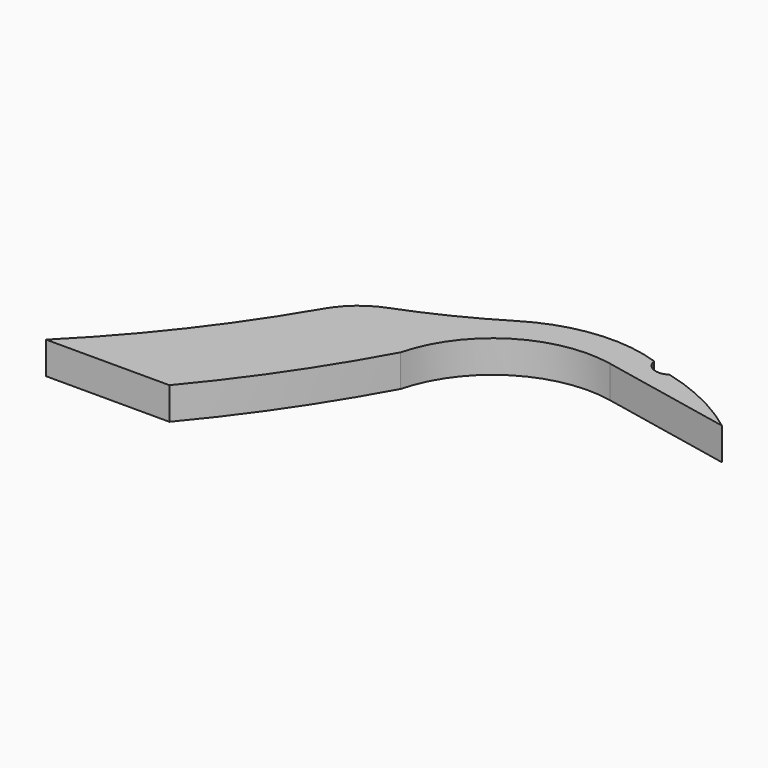
from build123d import *

# Parameters (mm, degrees)
F1_DEPTH = 27
F2_W     = 403.082937
F2_H     = 389.70685
F3_DEPTH = 50


with BuildPart() as f1:
    # F0 (on Top) → F1 (new body)
    with BuildSketch(Plane.XY):
        with BuildLine():
            ThreePointArc((103.141751, 130.827628), (147.000525, 190.646497), (220.000119, 203.797485))
            Line((220.000119, 203.797485), (331.982739, 180.898076))
            ThreePointArc((331.982739, 180.898076), (297.759937, 202.019334), (260.019282, 215.909999))
            ThreePointArc((260.019282, 215.909999), (247.785722, 214.790312), (240.327458, 224.551869))
            ThreePointArc((240.327458, 224.551869), (186.047212, 230.450127), (134.405585, 212.722269))
            ThreePointArc((134.405585, 212.722269), (96.675345, 191.925026), (57.181264, 174.711255))
            ThreePointArc((57.181264, 174.711255), (38.789615, 163.844419), (25.042325, 147.493489))
            ThreePointArc((25.042325, 147.493489), (-75.160431, 14.302014), (-203.064791, -92.567234))
            ThreePointArc((-203.064791, -92.567234), (-248.600788, -164.483519), (-272.445342, -246.19592))
            Line((-272.445342, -246.19592), (-253.424359, -365.238374))
            ThreePointArc((-253.424359, -365.238374), (-248.03197, -364.036727), (-243.660012, -360.659182))
            ThreePointArc((-243.660012, -360.659182), (-226.474264, -324.191868), (-229.146522, -283.966577))
            ThreePointArc((-229.146522, -283.966577), (-222.505303, -205.585554), (-161.231884, -156.257483))
            ThreePointArc((-161.231884, -156.257483), (-11.343038, -29.016538), (103.141751, 130.827628))
        make_face()
    extrude(amount=F1_DEPTH)

    # F2 (on Top) → F3 (cut)
    with BuildSketch(Plane.XY):
        with Locations((-121.900424, -194.853425)):
            Rectangle(F2_W, F2_H)
    extrude(amount=F3_DEPTH, mode=Mode.SUBTRACT)


solid = f1.part
